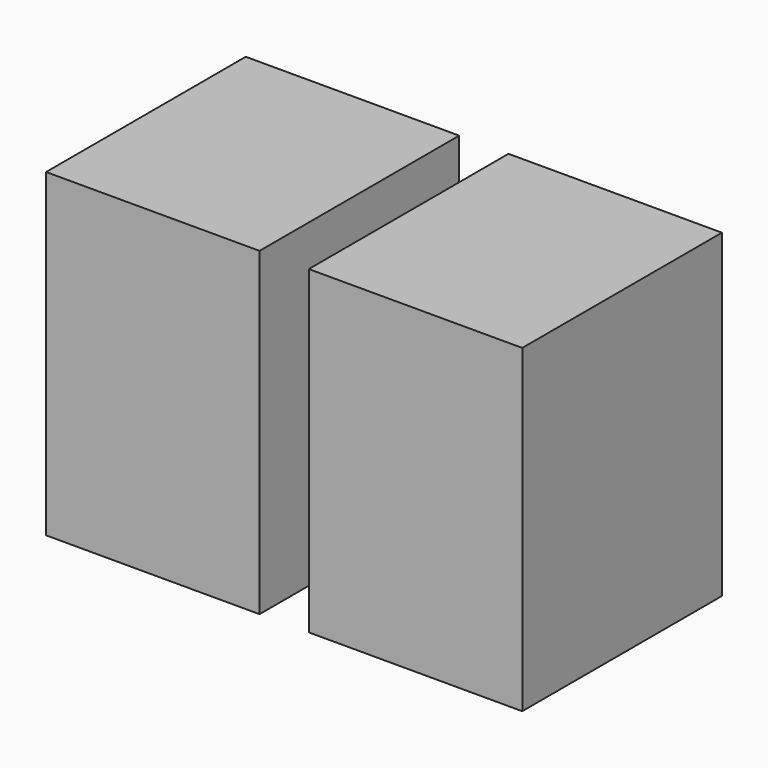
from build123d import *

# Parameters (mm, degrees)
F0_W     = 82.55
F0_H     = 123.698
F1_DEPTH = 96.52


with BuildPart() as f1:
    # F0 (on Front) → F1 (new body)
    with BuildSketch(Plane.XZ):
        with Locations((41.062515, 58.415847)):
            Rectangle(F0_W, F0_H)
    extrude(amount=-F1_DEPTH)


with BuildPart() as f2_1:
    # F2: copy of F1
    add(f1.part.moved(Location((101.6, 0, 0))))


solid = Compound([f1.part, f2_1.part])
